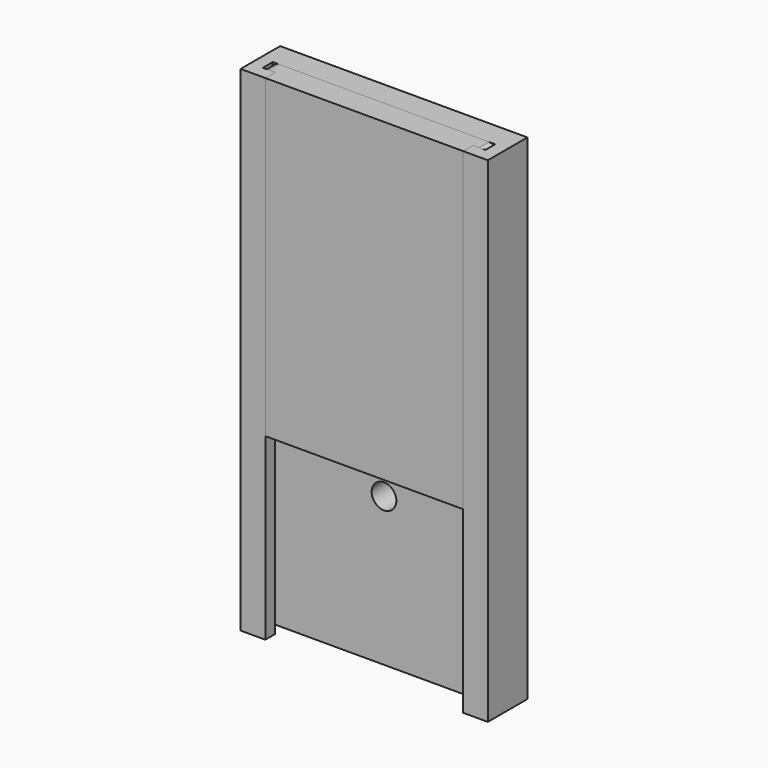
from build123d import *

# Parameters (mm, degrees)
F1_DEPTH      = 280
F1_DEPTH_BACK = 120
F2_R          = 10
F3_DEPTH      = 20
F5_DEPTH      = 255
F6_R          = 5
F7_R          = 5


with BuildPart() as f1:
    # F0 (on Top) → F1 (new body, two sides)
    with BuildSketch(Plane.XY) as f1_sk:
        Polygon((100, 40), (0, 40), (-100, 40), (-100, 0), (-80, 0), (-80, 10), (-90, 10), (-90, 20), (0, 20), (90, 20), (90, 10), (80, 10), (80, 0), (100, 0), align=None)
    extrude(amount=F1_DEPTH)
    extrude(f1_sk.sketch, amount=-F1_DEPTH_BACK)

    # F2 (on face) → F3 (cut)
    with BuildSketch(Plane.XZ.offset(-20)):
        Circle(F2_R)
    extrude(amount=-F3_DEPTH, mode=Mode.SUBTRACT)


with BuildPart() as f5:
    # F4 (on face) → F5 (new body)
    with BuildSketch(Plane.XY.offset(280)):
        Polygon((90, 20), (-90, 20), (-90, 10), (-80, 10), (-80, 0), (80, 0), (80, 10), (90, 10), align=None)
    extrude(amount=-F5_DEPTH)

    # F6
    f6_edges = [f5.edges().sort_by_distance(p)[0] for p in [
        (-90, 15, 280),
    ]]
    fillet(f6_edges, radius=F6_R)

    # F7
    f7_edges = [f5.edges().sort_by_distance(p)[0] for p in [
        (90, 15, 280),
    ]]
    fillet(f7_edges, radius=F7_R)


solid = Compound([f1.part, f5.part])
